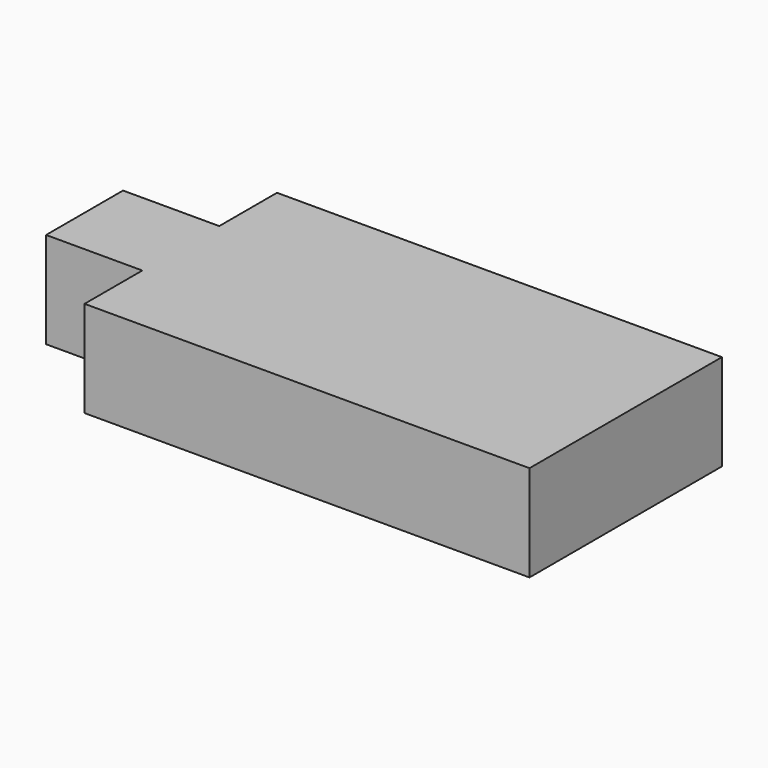
from build123d import *

# Parameters (mm, degrees)
F0_W     = 4
F0_H     = 4
F1_DEPTH = 4


with BuildPart() as f1:
    # F0 (on Top) → F1 (new body)
    with BuildSketch(Plane.XY):
        with Locations((-11.25, 0)):
            Rectangle(F0_W, F0_H)
        Polygon((-9.25, 2), (-9.25, -2), (-9.25, -5), (9.25, -5), (9.25, 5), (-9.25, 5), align=None)
    extrude(amount=F1_DEPTH)


solid = f1.part
